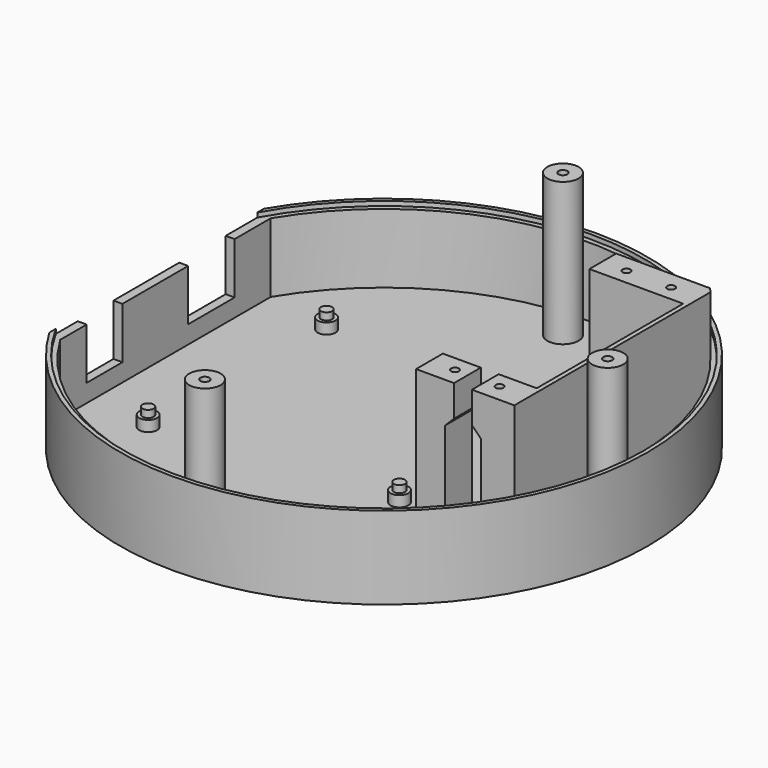
from build123d import *

# Parameters (mm, degrees)
F1_DEPTH  = 2
F2_W      = 2
F2_H      = 18.4
F2_H_2    = 13
F2_H_3    = 10
F3_DEPTH  = 4
F2_R      = 1.25
F4_DEPTH  = 4
F2_R_2    = 2
F5_DEPTH  = 2.4
F6_DEPTH  = 15.5
F7_R      = 3.5
F7_R_2    = 1
F8_DEPTH  = 32
F10_DEPTH = 28
F11_R     = 0.875
F12_DEPTH = 10
F14_DEPTH = 25
F16_DEPTH = 1


with BuildPart() as f1:
    # F0 (on Top) → F1 (new body)
    with BuildSketch(Plane.XY):
        with BuildLine():
            Line((-50.909091, 30), (-50.909091, -30))
            ThreePointArc((-50.909091, -30), (59.090909, 0), (-50.909091, 30))
        make_face()
    extrude(amount=F1_DEPTH)

    # F2 (on face) → F3 (join)
    with BuildSketch(Plane.XY.offset(2)):
        with BuildLine():
            ThreePointArc((-48.909091, 29.449495), (57.090909, 0), (-48.909091, -29.449495))
            Line((-48.909091, -29.449495), (-48.909091, -22.050505))
            Line((-48.909091, -22.050505), (-50.909091, -22.050505))
            Line((-50.909091, -22.050505), (-50.909091, -30))
            ThreePointArc((-50.909091, -30), (59.090909, 0), (-50.909091, 30))
            Line((-50.909091, 30), (-50.909091, 19.349495))
            Line((-50.909091, 19.349495), (-48.909091, 19.349495))
            Line((-48.909091, 19.349495), (-48.909091, 29.449495))
        make_face()
        with Locations((-49.909091, -2.850505)):
            Rectangle(F2_W, F2_H)
        with Locations((-49.909091, 12.849495)):
            Rectangle(F2_W, F2_H_2)
        with Locations((-49.909091, -17.050505)):
            Rectangle(F2_W, F2_H_3)
    extrude(amount=F3_DEPTH)

    # F2 (on face) → F4 (join)
    with BuildSketch(Plane.XY.offset(2)):
        with Locations((-33.609091, 25.949495)):
            Circle(F2_R)
        with Locations((-34.909091, -22.350505)):
            Circle(F2_R)
        with Locations((17.190909, 10.749495)):
            Circle(F2_R)
        with Locations((17.190909, -17.150505)):
            Circle(F2_R)
    extrude(amount=F4_DEPTH)

    # F2 (on face) → F5 (join)
    with BuildSketch(Plane.XY.offset(2)):
        with Locations((-33.609091, 25.949495)):
            Circle(F2_R_2)
        with Locations((-33.609091, 25.949495)):
            Circle(F2_R, mode=Mode.SUBTRACT)
        with Locations((-34.909091, -22.350505)):
            Circle(F2_R_2)
        with Locations((-34.909091, -22.350505)):
            Circle(F2_R, mode=Mode.SUBTRACT)
        with Locations((17.190909, -17.150505)):
            Circle(F2_R_2)
        with Locations((17.190909, -17.150505)):
            Circle(F2_R, mode=Mode.SUBTRACT)
        with Locations((17.190909, 10.749495)):
            Circle(F2_R_2)
        with Locations((17.190909, 10.749495)):
            Circle(F2_R, mode=Mode.SUBTRACT)
    extrude(amount=F5_DEPTH)

    # F2 (on face) → F6 (join)
    with BuildSketch(Plane.XY.offset(2)):
        with BuildLine():
            ThreePointArc((-48.909091, 29.449495), (57.090909, 0), (-48.909091, -29.449495))
            Line((-48.909091, -29.449495), (-48.909091, -22.050505))
            Line((-48.909091, -22.050505), (-50.909091, -22.050505))
            Line((-50.909091, -22.050505), (-50.909091, -30))
            ThreePointArc((-50.909091, -30), (59.090909, 0), (-50.909091, 30))
            Line((-50.909091, 30), (-50.909091, 19.349495))
            Line((-50.909091, 19.349495), (-48.909091, 19.349495))
            Line((-48.909091, 19.349495), (-48.909091, 29.449495))
        make_face()
        with Locations((-49.909091, -2.850505)):
            Rectangle(F2_W, F2_H)
    extrude(amount=F6_DEPTH)

    # F7 (on face) → F8 (join)
    with BuildSketch(Plane.XY.offset(2)):
        with Locations((0, 50.090909)):
            Circle(F7_R)
        with Locations((0, 50.090909)):
            Circle(F7_R_2, mode=Mode.SUBTRACT)
        with Locations((50.090909, 0)):
            Circle(F7_R)
        with Locations((50.090909, 0)):
            Circle(F7_R_2, mode=Mode.SUBTRACT)
        with Locations((0, -50.090909)):
            Circle(F7_R)
        with Locations((0, -50.090909)):
            Circle(F7_R_2, mode=Mode.SUBTRACT)
    extrude(amount=F8_DEPTH)

    # F9 (on face) → F10 (join)
    with BuildSketch(Plane.XY.offset(2)):
        with BuildLine():
            Line((42.607181, 38), (21.590909, 38))
            Line((21.590909, 38), (21.590909, 30.5))
            Line((21.590909, 30.5), (42.590909, 30.5))
            Line((42.590909, 30.5), (42.590909, -10.5))
            Line((42.590909, -10.5), (21.590909, -10.5))
            Line((21.590909, -10.5), (21.590909, -18))
            Line((21.590909, -18), (43.590909, -18))
            Line((43.590909, -18), (43.590909, 36.867391))
            ThreePointArc((43.590909, 36.867391), (43.102766, 37.436927), (42.607181, 38))
        make_face()
    extrude(amount=F10_DEPTH)

    # F11 (on face) → F12 (cut)
    with BuildSketch(Plane.XY.offset(30)):
        with Locations((27.090909, 34)):
            Circle(F11_R)
        with Locations((37.090909, 34)):
            Circle(F11_R)
        with Locations((27.090909, -14)):
            Circle(F11_R)
        with Locations((37.090909, -14)):
            Circle(F11_R)
    extrude(amount=-F12_DEPTH, mode=Mode.SUBTRACT)

    # F13 (on face) → F14 (cut)
    with BuildSketch(Plane.XZ.offset(18)):
        Polygon((34.090909, 30), (30.090909, 30), (30.090909, 23), (28.090909, 21), (28.090909, 2), (36.090909, 2), (36.090909, 21), (34.090909, 23), align=None)
    extrude(amount=-F14_DEPTH, mode=Mode.SUBTRACT)

    # F15 (on face) → F16 (join)
    with BuildSketch(Plane.XY.offset(17.5)):
        with BuildLine():
            Line((-50.909091, -28.185925), (-50.909091, -30))
            ThreePointArc((-50.909091, -30), (59.090909, 0), (-50.909091, 30))
            Line((-50.909091, 30), (-50.909091, 28.185925))
            ThreePointArc((-50.909091, 28.185925), (58.190909, 0), (-50.909091, -28.185925))
        make_face()
    extrude(amount=F16_DEPTH)


solid = f1.part
